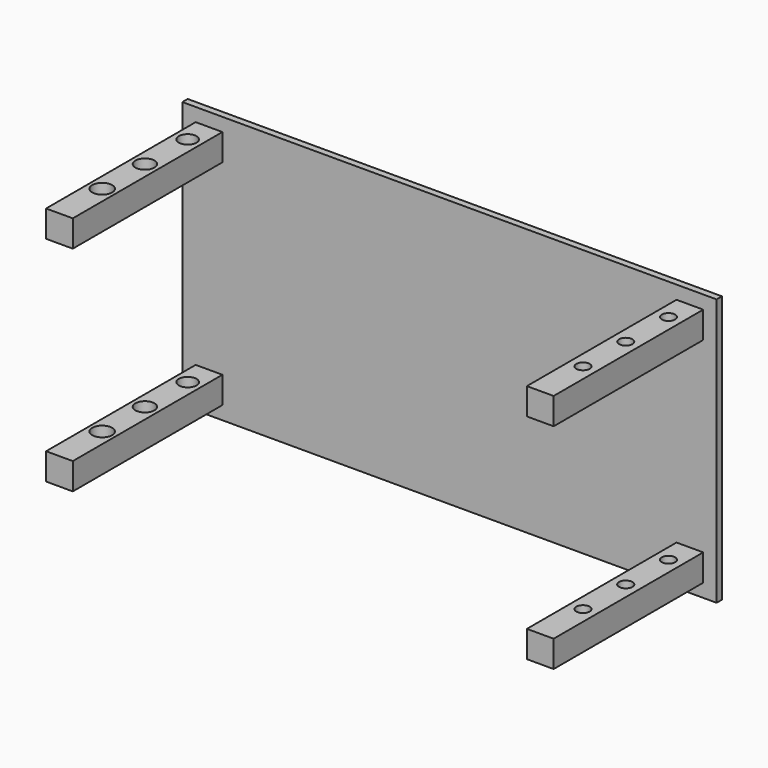
from build123d import *

# Parameters (mm, degrees)
F0_W     = 2000
F0_H     = 1000
F0_W_2   = 100
F0_H_2   = 100
F1_DEPTH = 25
F2_DEPTH = 725
F3_R     = 33.258786
F3_R_2   = 35.777632
F3_R_3   = 37.427227
F4_DEPTH = 950.001
F5_R     = 25
F6_DEPTH = 950.001


with BuildPart() as f1:
    # F0 (on Front) → F1 (new body)
    with BuildSketch(Plane.XZ):
        with Locations((-6.459419, 11.359975)):
            Rectangle(F0_W, F0_H)
        with Locations((-906.459419, -388.640025)):
            Rectangle(F0_W_2, F0_H_2, mode=Mode.SUBTRACT)
        with Locations((893.540581, -388.640025)):
            Rectangle(F0_W_2, F0_H_2, mode=Mode.SUBTRACT)
        with Locations((-906.459419, 411.359975)):
            Rectangle(F0_W_2, F0_H_2, mode=Mode.SUBTRACT)
        with Locations((893.540581, 411.359975)):
            Rectangle(F0_W_2, F0_H_2, mode=Mode.SUBTRACT)
    extrude(amount=F1_DEPTH)

    # F0 (on Front) → F2 (join)
    with BuildSketch(Plane.XZ):
        with Locations((893.540581, -388.640025)):
            Rectangle(F0_W_2, F0_H_2)
        with Locations((-906.459419, -388.640025)):
            Rectangle(F0_W_2, F0_H_2)
        with Locations((-906.459419, 411.359975)):
            Rectangle(F0_W_2, F0_H_2)
        with Locations((893.540581, 411.359975)):
            Rectangle(F0_W_2, F0_H_2)
    extrude(amount=F2_DEPTH)

    # F3 (on face) → F4 (cut, through all)
    with BuildSketch(Plane(origin=(0, 0, -438.640025), x_dir=(1, 0, 0), z_dir=(0, 0, -1))):
        with Locations((-906.459419, 125)):
            Circle(F3_R)
        with Locations((-906.459419, 325)):
            Circle(F3_R_2)
        with Locations((-906.459419, 525)):
            Circle(F3_R_3)
    extrude(amount=-F4_DEPTH, mode=Mode.SUBTRACT)

    # F5 (on face) → F6 (cut, through all)
    with BuildSketch(Plane.XY.offset(461.359975)):
        with Locations((893.540581, -525)):
            Circle(F5_R)
        with Locations((893.540581, -325)):
            Circle(F5_R)
        with Locations((893.540581, -125)):
            Circle(F5_R)
    extrude(amount=-F6_DEPTH, mode=Mode.SUBTRACT)


solid = f1.part
